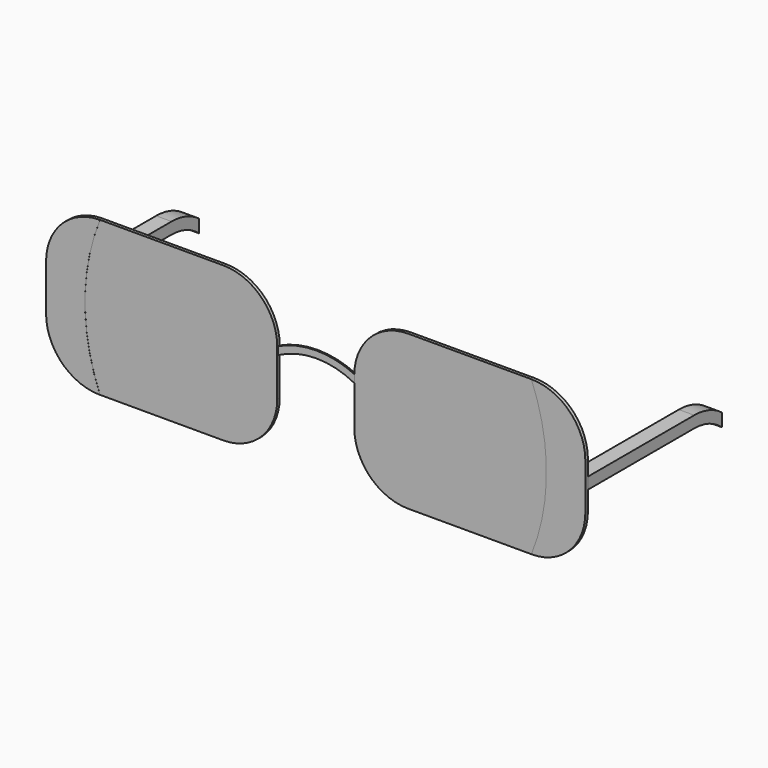
from build123d import *

# Parameters (mm, degrees)
F1_DEPTH = 0.254
F2_DEPTH = 0.127
F3_DEPTH = 0.2667
F4_W     = 22.2287480719
F4_H     = 1.9028484821
F5_DEPTH = 1.27
F4_W_2   = 22.225
F4_H_2   = 1.905


with BuildPart() as f1:
    # F0 (on Front) → F1 (new body, symmetric)
    with BuildSketch(Plane.XZ):
        with BuildLine():
            Line((-35.4445456231, 55.3185019563), (-55.7645456231, 55.3185019563))
            ThreePointArc((-55.7645456231, 55.3185019563), (-58.242655705, 42.6185019563), (-55.7645456231, 29.9185019563))
            Line((-55.7645456231, 29.9185019563), (-35.4445456231, 29.9185019563))
            ThreePointArc((-35.4445456231, 29.9185019563), (-29.1583663383, 32.5223226715), (-26.5545456231, 38.8085019563))
            Line((-26.5545456231, 38.8085019563), (-26.5545456231, 45.1255999506))
            Line((-26.5545456231, 45.1255999506), (-26.5545456231, 46.4285019563))
            ThreePointArc((-26.5545456231, 46.4285019563), (-29.1583663383, 52.714681241), (-35.4445456231, 55.3185019563))
        make_face()
    extrude(amount=F1_DEPTH, both=True)


with BuildPart() as f1b:
    # F0 (on Front) → F1, piece 2 (new body, symmetric)
    with BuildSketch(Plane.XZ):
        with BuildLine():
            ThreePointArc((-4.9645456231, 55.3185019563), (-11.2507249078, 52.714681241), (-13.8545456231, 46.4285019563))
            Line((-13.8545456231, 46.4285019563), (-13.8545456231, 45.1255999506))
            Line((-13.8545456231, 45.1255999506), (-13.8545456231, 38.8085019563))
            ThreePointArc((-13.8545456231, 38.8085019563), (-11.2507249078, 32.5223226715), (-4.9645456231, 29.9185019563))
            Line((-4.9645456231, 29.9185019563), (15.3554543769, 29.9185019563))
            ThreePointArc((15.3554543769, 29.9185019563), (17.8338297004, 42.6185019563), (15.3554543769, 55.3185019563))
            Line((15.3554543769, 55.3185019563), (-4.9645456231, 55.3185019563))
        make_face()
    extrude(amount=F1_DEPTH, both=True)


with BuildPart() as f2:
    # F0 (on Front) → F2 (new body, symmetric)
    with BuildSketch(Plane.XZ):
        with BuildLine():
            ThreePointArc((-13.8545456231, 46.4285019563), (-20.2045456231, 47.8672960224), (-26.5545456231, 46.4285019563))
            Line((-26.5545456231, 46.4285019563), (-26.5545456231, 45.1255999506))
            ThreePointArc((-26.5545456231, 45.1255999506), (-20.2045456231, 46.729276295), (-13.8545456231, 45.1255999506))
            Line((-13.8545456231, 45.1255999506), (-13.8545456231, 46.4285019563))
        make_face()
    extrude(amount=F2_DEPTH, both=True)


with BuildPart() as f3:
    # F0 (on Front) → F3 (new body, symmetric)
    with BuildSketch(Plane.XZ):
        with BuildLine():
            ThreePointArc((24.2454543769, 46.4285019563), (21.6416336617, 52.714681241), (15.3554543769, 55.3185019563))
            ThreePointArc((15.3554543769, 55.3185019563), (17.8338297004, 42.6185019563), (15.3554543769, 29.9185019563))
            ThreePointArc((15.3554543769, 29.9185019563), (21.6416336617, 32.5223226715), (24.2454543769, 38.8085019563))
            Line((24.2454543769, 38.8085019563), (24.2454543769, 46.4285019563))
        make_face()
    extrude(amount=F3_DEPTH, both=True)


with BuildPart() as f3b:
    # F0 (on Front) → F3, piece 2 (new body, symmetric)
    with BuildSketch(Plane.XZ):
        with BuildLine():
            ThreePointArc((-55.7645456231, 29.9185019563), (-58.242655705, 42.6185019563), (-55.7645456231, 55.3185019563))
            ThreePointArc((-55.7645456231, 55.3185019563), (-62.0507249078, 52.714681241), (-64.6545456231, 46.4285019563))
            Line((-64.6545456231, 46.4285019563), (-64.6545456231, 38.8085019563))
            ThreePointArc((-64.6545456231, 38.8085019563), (-62.0507249078, 32.5223226715), (-55.7645456231, 29.9185019563))
        make_face()
    extrude(amount=F3_DEPTH, both=True)


with BuildPart() as f5:
    # F4 (on Right) → F5 (new body, symmetric)
    with BuildSketch(Plane.YZ):
        with Locations((15.4586301651, 47.0706745982)):
            Rectangle(F4_W, F4_H)
        with BuildLine():
            ThreePointArc((32.2815552354, 46.1192503572), (29.5816744745, 47.5338593205), (26.5730042011, 48.0220988393))
            Line((26.5730042011, 48.0220988393), (26.5730042011, 46.1192503572))
            ThreePointArc((26.5730042011, 46.1192503572), (29.6251847864, 45.5605548314), (32.2815552354, 43.9569205046))
            Line((32.2815552354, 43.9569205046), (32.2815552354, 46.1192503572))
        make_face()
    extrude(amount=F5_DEPTH, both=True)


with BuildPart() as f5b:
    # F4 (on Right) → F5, piece 2 (new body, symmetric)
    with BuildSketch(Plane.YZ):
        with Locations((16.1247346371, 38.8702488045)):
            Rectangle(F4_W_2, F4_H_2)
        with BuildLine():
            ThreePointArc((32.87033959, 37.978487935), (30.2008966272, 39.3499492336), (27.2372346371, 39.8227488045))
            Line((27.2372346371, 39.8227488045), (27.2372346371, 37.9177488045))
            ThreePointArc((27.2372346371, 37.9177488045), (30.242836494, 37.3761505915), (32.87033959, 35.819487935))
            Line((32.87033959, 35.819487935), (32.87033959, 37.978487935))
        make_face()
    extrude(amount=F5_DEPTH, both=True)


with BuildPart() as f5_1:
    # F6: moved
    add(f5.part.moved(Location((22.86, -4.2545, -4.2545))))


with BuildPart() as f5b_1:
    # F7: moved
    add(f5b.part.moved(Location((-63.4365, -4.7625, 3.937))))


solid = Compound([f1.part, f1b.part, f2.part, f3.part, f3b.part, f5_1.part, f5b_1.part])
